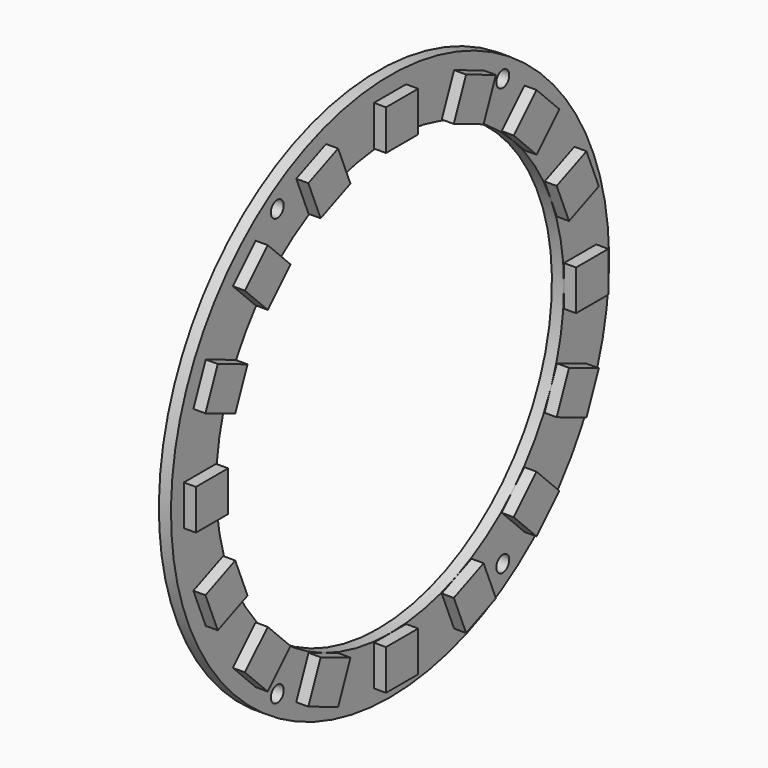
from build123d import *

# Parameters (mm, degrees)
SKETCH051_R             = 34
SKETCH051_R_2           = 27
PAD041_DEPTH            = 1.5
SKETCH052_W             = 1.2
SKETCH052_H             = 2
PAD042_DEPTH            = 0.1
SKETCH053_R             = 1
POCKET008_DEPTH         = 1.601
SKETCH054_W             = 5
SKETCH054_H             = 5
PAD043_DEPTH            = 1.5
POLARPATTERN_COUNT      = 16
BODY013_PLACEMENT_ANGLE = 90


with BuildPart() as part:
    # Sketch051 → Pad041 (new body)
    with BuildSketch(Plane.XY):
        Circle(SKETCH051_R)
        Circle(SKETCH051_R_2, mode=Mode.SUBTRACT)
    extrude(amount=PAD041_DEPTH)

    # Sketch052 (on Face3 of Pad041) → Pad042 (join)
    with BuildSketch(Plane(origin=(0, 0, 0), x_dir=(1, 0, 0), z_dir=(0, 0, -1))):
        with Locations((-3.4, 31.5)):
            Rectangle(SKETCH052_W, SKETCH052_H)
        with Locations((-1.133333, 31.5)):
            Rectangle(SKETCH052_W, SKETCH052_H)
        with Locations((1.133333, 31.5)):
            Rectangle(SKETCH052_W, SKETCH052_H)
        with Locations((3.4, 31.5)):
            Rectangle(SKETCH052_W, SKETCH052_H)
    extrude(amount=PAD042_DEPTH)

    # Sketch053 (on Face3 of Pad042) → Pocket008 (cut, through all)
    with BuildSketch(Plane.XY.offset(1.5)):
        with Locations((-26.5, 17.5)):
            Circle(SKETCH053_R)
        with Locations((26.5, 17.5)):
            Circle(SKETCH053_R)
        with Locations((26.5, -17.5)):
            Circle(SKETCH053_R)
        with Locations((-26.5, -17.5)):
            Circle(SKETCH053_R)
    extrude(amount=-POCKET008_DEPTH, mode=Mode.SUBTRACT)

    # Sketch054 (on Face3 of Pocket008) → Pad043 (join)
    with BuildSketch(Plane.XY.offset(1.5)):
        with Locations((0, 29.5)):
            Rectangle(SKETCH054_W, SKETCH054_H)
    pad043 = extrude(amount=PAD043_DEPTH)

    # PolarPattern: Pad043 ×16 about axis
    polarpattern_axis = Axis((0, 0, 1.5), (0, 0, 1))
    for i in range(1, POLARPATTERN_COUNT):
        add(pad043.rotate(polarpattern_axis, i * 360 / POLARPATTERN_COUNT))


with BuildPart() as part_1:
    # Body013 placement: moved
    add(part.part.moved(Location((-195, 404.5, 33))).rotate(Axis((-195, 404.5, 33), (0, 1, 0)), BODY013_PLACEMENT_ANGLE))


solid = part_1.part
